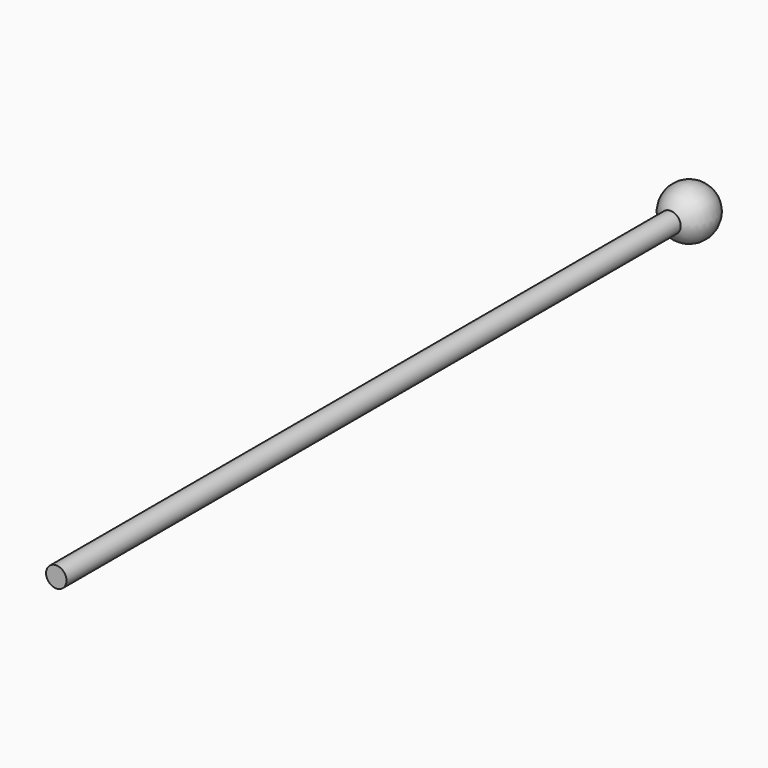
from build123d import *


with BuildPart() as f1:
    # F0 (on Top) → F1 (revolve)
    with BuildSketch(Plane.XY):
        with BuildLine():
            Line((2, 109.04348), (2, -40.95652))
            Line((2, -40.95652), (4, -40.95652))
            Line((4, -40.95652), (4, 109.460905))
            ThreePointArc((4, 109.460905), (6.894532, 115.065029), (2, 119.04348))
            Line((2, 119.04348), (2, 109.04348))
        make_face()
    revolve(axis=Axis((2, 34.04348, 0), (0, 1, 0)))


solid = f1.part
